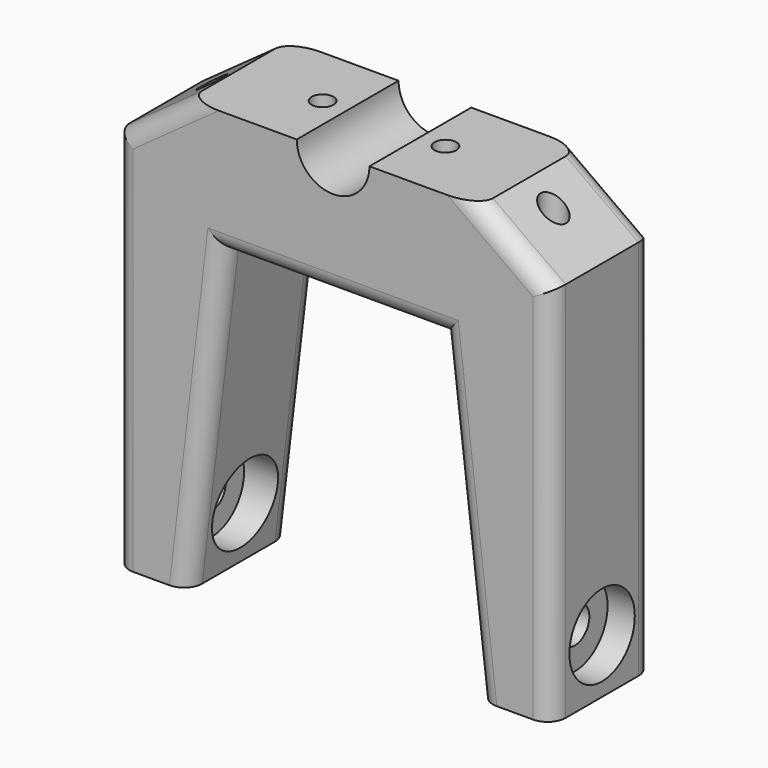
from build123d import *

# Parameters (mm, degrees)
F1_DEPTH  = 35
F2_R      = 3
F3_DEPTH  = 34.3740698971
F4_R      = 5
F5_DEPTH  = 120.001
F6_R      = 11.25
F7_DEPTH  = 7.5
F8_R      = 11.25
F9_DEPTH  = 7.5
F10_R     = 11.25
F11_DEPTH = 47.5
F12_R     = 11.25
F13_DEPTH = 47.5
F14_R     = 2.05
F15_DEPTH = 60
F16_R     = 3.5
F17_DEPTH = 15
F18_R     = 5


with BuildPart() as f1:
    # F0 (on Front) → F1 (new body)
    with BuildSketch(Plane.XZ):
        with BuildLine():
            Line((-40, 19.3730698971), (-60, 5))
            Line((-60, 5), (-60, 0))
            Line((-60, 0), (-60, -100))
            Line((-60, -100), (-40, -100))
            Line((-40, -100), (-30, -15))
            Line((-30, -15), (0, -15))
            Line((0, -15), (30, -15))
            Line((30, -15), (40, -100))
            Line((40, -100), (60, -100))
            Line((60, -100), (60, 0))
            Line((60, 0), (60, 5))
            Line((60, 5), (40, 19.3730698971))
            Line((40, 19.3730698971), (10, 19.3730698971))
            ThreePointArc((10, 19.3730698971), (0, 9.3730698971), (-10, 19.3730698971))
            Line((-10, 19.3730698971), (-40, 19.3730698971))
        make_face()
    extrude(amount=F1_DEPTH)

    # F2 (on face) → F3 (cut, through all)
    with BuildSketch(Plane(origin=(0, 0, -15), x_dir=(1, 0, 0), z_dir=(0, 0, -1))):
        with Locations((-16.9, 17.5)):
            Circle(F2_R)
        with Locations((16.9, 17.5)):
            Circle(F2_R)
    extrude(amount=-F3_DEPTH, mode=Mode.SUBTRACT)

    # F4 (on face) → F5 (cut, through all)
    with BuildSketch(Plane(origin=(-60, 0, 0), x_dir=(0, -1, 0), z_dir=(-1, 0, 0))):
        with Locations((17.5, -85)):
            Circle(F4_R)
    extrude(amount=-F5_DEPTH, mode=Mode.SUBTRACT)

    # F6 (on face) → F7 (cut)
    with BuildSketch(Plane(origin=(-60, 0, 0), x_dir=(0, -1, 0), z_dir=(-1, 0, 0))):
        with Locations((17.5, -85)):
            Circle(F6_R)
    extrude(amount=-F7_DEPTH, mode=Mode.SUBTRACT)

    # F8 (on face) → F9 (cut)
    with BuildSketch(Plane.YZ.offset(60)):
        with Locations((-17.5, -85)):
            Circle(F8_R)
    extrude(amount=-F9_DEPTH, mode=Mode.SUBTRACT)

    # F10 (on Right) → F11 (cut)
    with BuildSketch(Plane.YZ):
        with Locations((-17.5, -85)):
            Circle(F10_R)
    extrude(amount=-F11_DEPTH, mode=Mode.SUBTRACT)

    # F12 (on Right) → F13 (cut)
    with BuildSketch(Plane.YZ):
        with Locations((-17.5, -85)):
            Circle(F12_R)
    extrude(amount=F13_DEPTH, mode=Mode.SUBTRACT)

    # F14 (on Top) → F15 (cut, symmetric)
    with BuildSketch(Plane.XY):
        with Locations((-47, -18)):
            Circle(F14_R)
        with Locations((47, -18)):
            Circle(F14_R)
    extrude(amount=F15_DEPTH, both=True, mode=Mode.SUBTRACT)

    # F16 (on face) → F17 (cut)
    with BuildSketch(Plane.XY.offset(19.3730698971)):
        with Locations((-47, -18)):
            Circle(F16_R)
        with Locations((47, -18)):
            Circle(F16_R)
    extrude(amount=-F17_DEPTH, mode=Mode.SUBTRACT)

    # F18
    f18_edges = [f1.edges().sort_by_distance(p)[0] for p in [
        (60, -35, -47.5),
        (60, 0, -47.5),
        (-60, -35, -47.5),
        (-60, 0, -47.5),
        (-50, 0, 12.186535),
        (-50, -35, 12.186535),
        (50, -35, 12.186535),
        (50, 0, 12.186535),
        (35, 0, -57.5),
        (0, 0, -15),
        (0, -35, -15),
        (-35, -35, -57.5),
        (35, -35, -57.5),
        (-35, 0, -57.5),
    ]]
    fillet(f18_edges, radius=F18_R)


solid = f1.part
